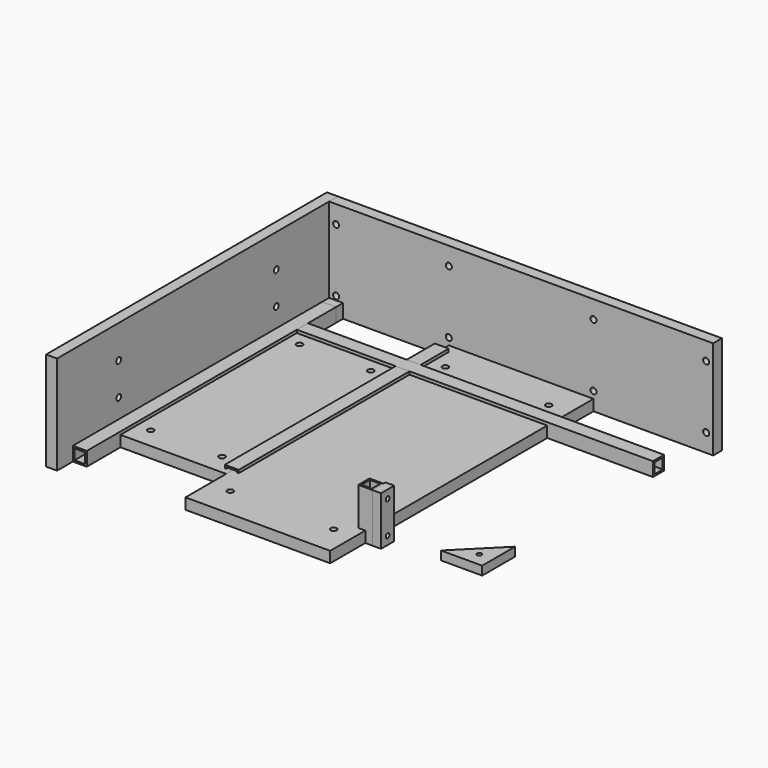
from build123d import *

# Parameters (mm, degrees)
F1_DEPTH        = 25.4
F2_DEPTH        = 25.4
F0_W            = 25.4
F0_H            = 64
F3_DEPTH        = 25.4
F0_H_2          = 389.2
F4_DEPTH        = 25.4
F5_T            = -3.175
F6_T            = -3.175
F7_T            = -3.175
F8_T            = -3.175
F0_H_3          = 16
F9_DEPTH        = 25.4
F11_D           = 8.5
F13_DEPTH       = 16
F14_D           = 8.5
F15_W           = 700
F15_H           = 20
F16_DEPTH       = 180
F18_D           = 11
F18_CSINK_D     = 22.4
F18_CSINK_ANGLE = 90
F19_W           = 20
F19_H           = 640
F20_DEPTH       = 180
F21_W           = 218.1
F21_H           = 414.6
F22_DEPTH       = 20
F21_W_2         = 263.8
F21_H_2         = 92.7
F23_DEPTH       = 20
F24_D           = 11
F24_CSINK_D     = 22.4
F24_CSINK_ANGLE = 90
F25_D           = 11
F25_CSINK_D     = 22.4
F25_CSINK_ANGLE = 90
F26_W           = 25.4
F26_H           = 25.4
F27_DEPTH       = 89.2
F28_T           = -3.175
F29_W           = 25.4
F29_H           = 89.2
F29_W_2         = 4.6
F30_DEPTH       = 16
F31_D           = 8.5
F33_D           = 11
F33_CSINK_D     = 22.4
F33_CSINK_ANGLE = 90


with BuildPart() as f1:
    # F0 (on Top) → F1 (new body)
    with BuildSketch(Plane.XY):
        Polygon((-350, -284), (-324.6, -284), (-324.6, -220), (-324.6, -194.6), (-324.6, 194.6), (-324.6, 220), (-324.6, 284), (-350, 284), align=None)
    extrude(amount=F1_DEPTH)

    # F5
    f5_openings = [f1.faces().sort_by_distance(p)[0] for p in [
        (-337.3, 284, 12.7),
        (-337.3, -284, 12.7),
    ]]
    offset(amount=F5_T, openings=f5_openings)


with BuildPart() as f2:
    # F0 (on Top) → F2 (new body)
    with BuildSketch(Plane.XY):
        Polygon((324.6, 194.6), (324.6, 220), (144.6, 220), (119.2, 220), (-119.2, 220), (-144.6, 220), (-324.6, 220), (-324.6, 194.6), (-144.6, 194.6), (-119.2, 194.6), (119.2, 194.6), (144.6, 194.6), align=None)
    extrude(amount=F2_DEPTH)

    # F6
    f6_openings = [f2.faces().sort_by_distance(p)[0] for p in [
        (-324.6, 207.3, 12.7),
        (324.6, 207.3, 12.7),
    ]]
    offset(amount=F6_T, openings=f6_openings)


with BuildPart() as f3:
    # F0 (on Top) → F3 (new body)
    with BuildSketch(Plane.XY):
        with Locations((-131.9, 252)):
            Rectangle(F0_W, F0_H)
    extrude(amount=F3_DEPTH)

    # F7
    f7_openings = [f3.faces().sort_by_distance(p)[0] for p in [
        (-131.9, 284, 12.7),
        (-131.9, 220, 12.7),
    ]]
    offset(amount=F7_T, openings=f7_openings)


with BuildPart() as f4:
    # F0 (on Top) → F4 (new body)
    with BuildSketch(Plane.XY):
        with Locations((-131.9, 0)):
            Rectangle(F0_W, F0_H_2)
    extrude(amount=F4_DEPTH)

    # F8
    f8_openings = [f4.faces().sort_by_distance(p)[0] for p in [
        (-131.9, -194.6, 12.7),
        (-131.9, 194.6, 12.7),
    ]]
    offset(amount=F8_T, openings=f8_openings)


with BuildPart() as f9:
    # F0 (on Top) → F9 (new body)
    with BuildSketch(Plane.XY):
        with Locations((-337.3, 292)):
            Rectangle(F0_W, F0_H_3)
    extrude(amount=F9_DEPTH)

    # F11 (through all)
    with Locations(Plane(origin=(0, 300, 0), x_dir=(-1, 0, 0), z_dir=(0, 1, 0))):
        with Locations((337.3, 12.7)):
            Hole(F11_D / 2)


with BuildPart() as f13:
    # F12 (on Top) → F13 (new body)
    with BuildSketch(Plane.XY):
        Polygon((324.6, -119.6), (249.6, -194.6), (324.6, -194.6), align=None)
    extrude(amount=F13_DEPTH)

    # F14 (through all)
    with Locations(Plane(origin=(0, 0, 0), x_dir=(1, 0, 0), z_dir=(0, 0, -1))):
        with Locations((299.6, 169.6)):
            Hole(F14_D / 2)


with BuildPart() as f16:
    # F15 (on face) → F16 (new body)
    with BuildSketch(Plane.XY):
        with Locations((0, 310)):
            Rectangle(F15_W, F15_H)
    extrude(amount=F16_DEPTH)

    # F18 (through all)
    with Locations(Plane(origin=(0, 320, 0), x_dir=(-1, 0, 0), z_dir=(0, 1, 0))):
        with Locations((-131.9, 147.3), (-131.9, 32.7), (-337.3, 147.3), (-337.3, 32.7), (131.9, 147.3), (131.9, 32.7), (337.3, 147.3), (337.3, 32.7)):
            CounterSinkHole(F18_D / 2, F18_CSINK_D / 2, counter_sink_angle=F18_CSINK_ANGLE)


with BuildPart() as f20:
    # F19 (on Top) → F20 (new body)
    with BuildSketch(Plane.XY):
        with Locations((-360, 0)):
            Rectangle(F19_W, F19_H)
    extrude(amount=F20_DEPTH)

    # F33 (through all)
    with Locations(Plane(origin=(-370, 0, 0), x_dir=(0, -1, 0), z_dir=(-1, 0, 0))):
        with Locations((-179.6, 119.6), (-179.6, 60.4), (179.6, 119.6), (179.6, 60.4)):
            CounterSinkHole(F33_D / 2, F33_CSINK_D / 2, counter_sink_angle=F33_CSINK_ANGLE)


with BuildPart() as f22:
    # F21 (on Top) → F22 (new body)
    with BuildSketch(Plane.XY):
        with Locations((-240.95, 0)):
            Rectangle(F21_W, F21_H)
    extrude(amount=F22_DEPTH)

    # F24 (through all)
    with Locations(Plane(origin=(0, 0, 0), x_dir=(1, 0, 0), z_dir=(0, 0, -1))):
        with Locations((-299.6, -169.6), (-169.6, -169.6), (-169.6, 169.6), (-299.6, 169.6)):
            CounterSinkHole(F24_D / 2, F24_CSINK_D / 2, counter_sink_angle=F24_CSINK_ANGLE)


with BuildPart() as f23:
    # F21 (on Top) → F23 (new body)
    with BuildSketch(Plane.XY):
        with Locations((0, 253.65)):
            Rectangle(F21_W_2, F21_H_2)
        Rectangle(F21_W_2, F21_H)
        with Locations((0, -253.65)):
            Rectangle(F21_W_2, F21_H_2)
    extrude(amount=F23_DEPTH)

    # F25 (through all)
    with Locations(Plane(origin=(0, 0, 0), x_dir=(1, 0, 0), z_dir=(0, 0, -1))):
        with Locations((-94.2, -245), (94.2, -245), (-94.2, 245), (94.2, 245)):
            CounterSinkHole(F25_D / 2, F25_CSINK_D / 2, counter_sink_angle=F25_CSINK_ANGLE)


with BuildPart() as f27:
    # F26 (on Top) → F27 (new body)
    with BuildSketch(Plane.XY):
        with Locations((131.9, -207.3)):
            Rectangle(F26_W, F26_H)
    extrude(amount=F27_DEPTH)

    # F28
    f28_openings = [f27.faces().sort_by_distance(p)[0] for p in [
        (131.9, -207.3, 89.2),
        (131.9, -207.3, 0),
    ]]
    offset(amount=F28_T, openings=f28_openings)


with BuildPart() as f30:
    # F29 (on face) → F30 (new body)
    with BuildSketch(Plane.YZ.offset(144.6)):
        with Locations((-207.3, 44.6)):
            Rectangle(F29_W, F29_H)
        with Locations((-192.3, 44.6)):
            Rectangle(F29_W_2, F29_H)
    extrude(amount=F30_DEPTH)

    # F31 (through all)
    with Locations(Plane(origin=(144.6, 0, 0), x_dir=(0, 1, 0), z_dir=(-1, 0, 0))):
        with Locations((-205, -74.2), (-205, -15)):
            Hole(F31_D / 2)


solid = Compound([f1.part, f2.part, f3.part, f4.part, f9.part, f13.part, f16.part, f20.part, f22.part, f23.part, f27.part, f30.part])
